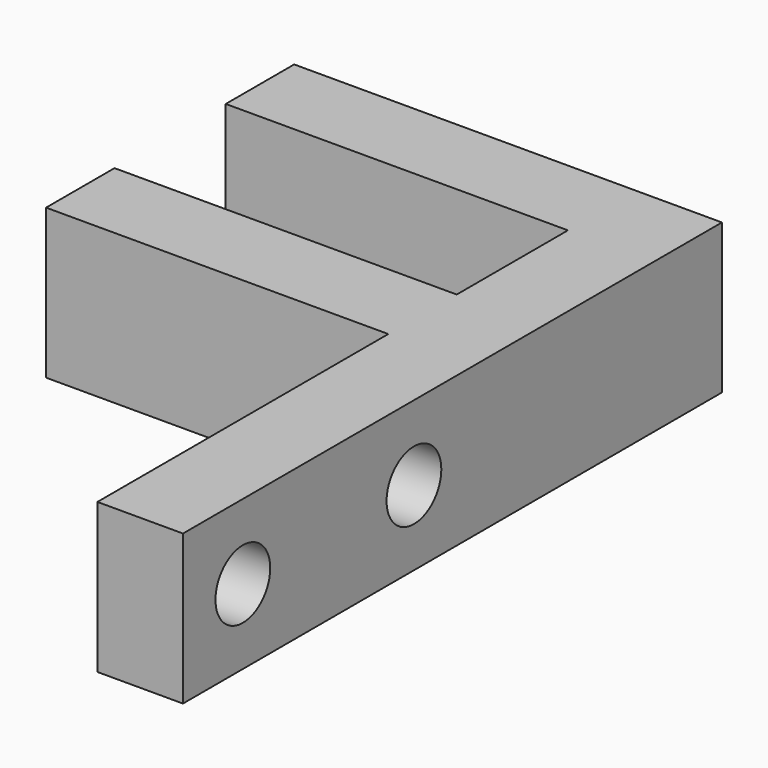
from build123d import *

# Parameters (mm, degrees)
PAD_DEPTH    = 3.5
SKETCH001_R  = 1.6
POCKET_DEPTH = 20.001


with BuildPart() as part:
    # Sketch → Pad (new body, symmetric)
    with BuildSketch(Plane.XY):
        Polygon((-20, 14.5), (0, 14.5), (0, -17), (-4, -17), (-4, 0), (-20, 0), (-20, 4), (-4, 4), (-4, 10.5), (-20, 10.5), align=None)
    extrude(amount=PAD_DEPTH, both=True)

    # Sketch001 → Pocket (cut, through all)
    with BuildSketch(Plane.YZ):
        with Locations((-3.5, 0)):
            Circle(SKETCH001_R)
        with Locations((-13.5, 0)):
            Circle(SKETCH001_R)
    extrude(amount=-POCKET_DEPTH, mode=Mode.SUBTRACT)


solid = part.part
